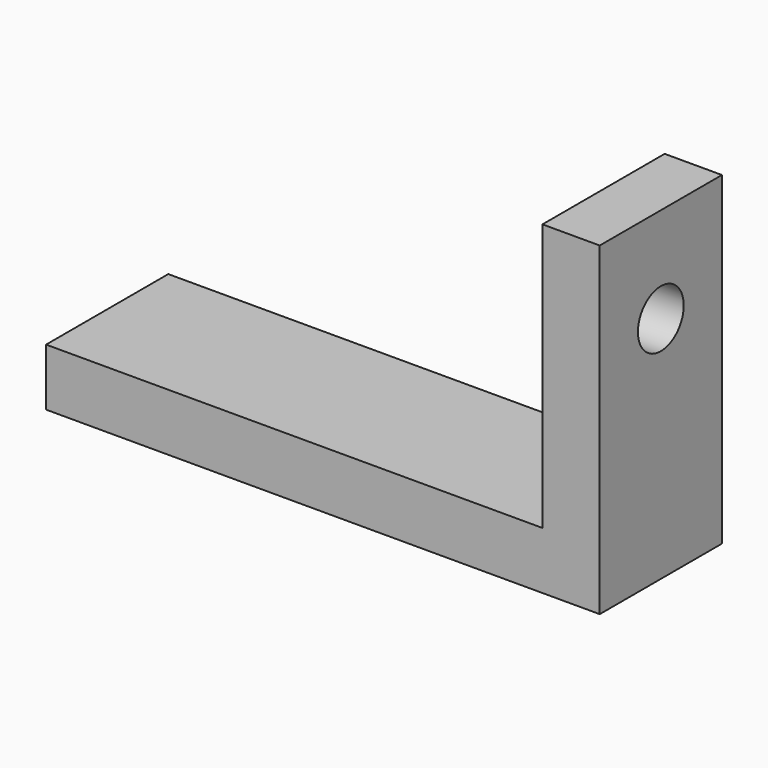
from build123d import *

# Parameters (mm, degrees)
F1_DEPTH = 8
F2_R     = 1.5
F3_DEPTH = 25


with BuildPart() as f1:
    # F0 (on Front) → F1 (new body)
    with BuildSketch(Plane.XZ):
        Polygon((1.5, 8.5), (-1.5, 8.5), (-1.5, -5.5), (-27.5, -5.5), (-27.5, -8.5), (-1.5, -8.5), (1.5, -8.5), align=None)
    extrude(amount=F1_DEPTH)

    # F2 (on face) → F3 (cut)
    with BuildSketch(Plane.YZ.offset(1.5)):
        with Locations((-4, 3.5)):
            Circle(F2_R)
    extrude(amount=-F3_DEPTH, mode=Mode.SUBTRACT)


solid = f1.part
